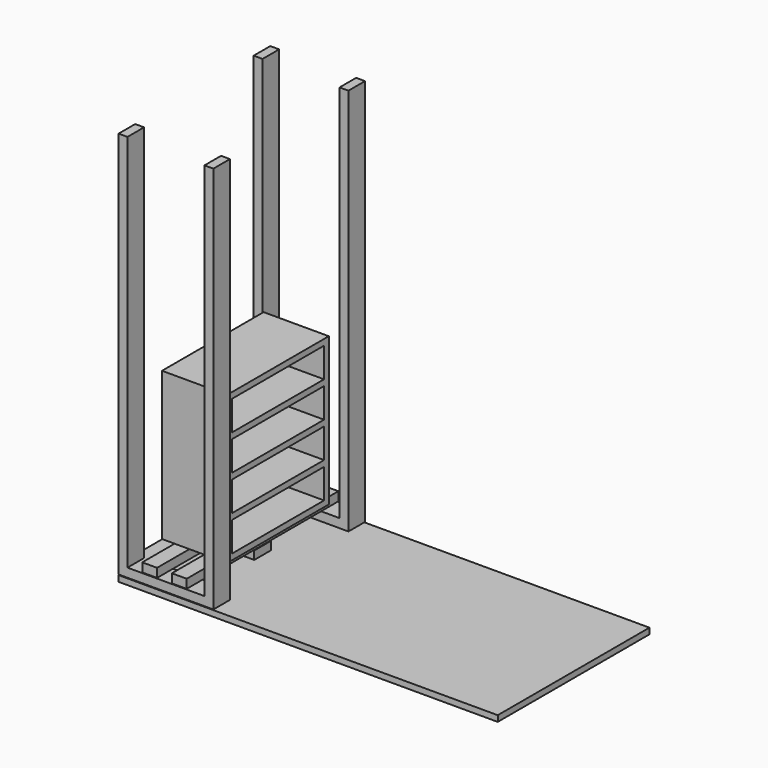
from build123d import *

# Parameters (mm, degrees)
F0_W      = 64
F0_H      = 32
F1_DEPTH  = 1
F4_DEPTH  = 1.5
F5_W      = 1.5
F5_H      = 3.5
F6_DEPTH  = 64
F8_W      = 2.5
F8_H      = 32
F9_DEPTH  = 1.5
F10_W     = 7.5
F10_H     = 3.5
F11_DEPTH = 1.5
F12_W     = 3.5
F12_H     = 0.1
F13_DEPTH = 1
F15_W     = 11
F15_H     = 21.4368455679
F16_DEPTH = 25
F17_W     = 19.4368455679
F17_H     = 5
F18_DEPTH = 10


with BuildPart() as f1:
    # F0 (on Top) → F1 (new body)
    with BuildSketch(Plane.XY):
        Rectangle(F0_W, F0_H)
    extrude(amount=F1_DEPTH)


with BuildPart() as f4:
    # F3 (on offset) → F4 (new body)
    with BuildSketch(Plane.XY.offset(1.1)):
        Polygon((-32, 16), (-32, -16), (-16, -16), (-16, -12.5), (-28.5, -12.5), (-28.5, 12.5), (-16, 12.5), (-16, 16), align=None)
    extrude(amount=F4_DEPTH)

    # F5 (on face) → F6 (join)
    with BuildSketch(Plane.XY.offset(2.6)):
        with Locations((-16.75, -14.25)):
            Rectangle(F5_W, F5_H)
        with Locations((-16.75, 14.25)):
            Rectangle(F5_W, F5_H)
        with Locations((-31.25, -14.25)):
            Rectangle(F5_W, F5_H)
        with Locations((-31.25, 14.25)):
            Rectangle(F5_W, F5_H)
    extrude(amount=F6_DEPTH)


with BuildPart() as f9:
    # F8 (on offset) → F9 (new body)
    with BuildSketch(Plane.XY.offset(2.7)):
        with Locations((-26.75, 0)):
            Rectangle(F8_W, F8_H)
    extrude(amount=F9_DEPTH)



with BuildPart() as f9b:
    # F8 (on offset) → F9, piece 2 (new body)
    with BuildSketch(Plane.XY.offset(2.7)):
        with Locations((-21.75, 0)):
            Rectangle(F8_W, F8_H)
    extrude(amount=F9_DEPTH)


with BuildPart() as f9_1:
    add(f9.part)

    add(f9b.part)  # F11 merges F9b
    # F10 (on face) → F11 (join)
    with BuildSketch(Plane(origin=(0, 0, 2.7), x_dir=(1, 0, 0), z_dir=(0, 0, -1))):
        with Locations((-24.25, 0)):
            Rectangle(F10_W, F10_H)
    extrude(amount=F11_DEPTH)

    # F12 (on face) → F13 (cut)
    with BuildSketch(Plane.YZ.offset(-20.5)):
        with Locations((0, 2.65)):
            Rectangle(F12_W, F12_H)
    extrude(amount=-F13_DEPTH, mode=Mode.SUBTRACT)


with BuildPart() as f16:
    # F15 (on offset) → F16 (new body)
    with BuildSketch(Plane.XY.offset(4.3)):
        with Locations((-24.5060836896, 1.3906531967)):
            Rectangle(F15_W, F15_H)
    extrude(amount=F16_DEPTH)

    # F17 (on face) → F18 (cut)
    with BuildSketch(Plane.YZ.offset(-19.0060836896)):
        with Locations((1.3906531967, 25.8)):
            Rectangle(F17_W, F17_H)
        with Locations((1.3906531967, 19.8)):
            Rectangle(F17_W, F17_H)
        with Locations((1.3906531967, 13.8)):
            Rectangle(F17_W, F17_H)
        with Locations((1.3906531967, 7.8)):
            Rectangle(F17_W, F17_H)
    extrude(amount=-F18_DEPTH, mode=Mode.SUBTRACT)


solid = Compound([f1.part, f4.part, f9_1.part, f16.part])
